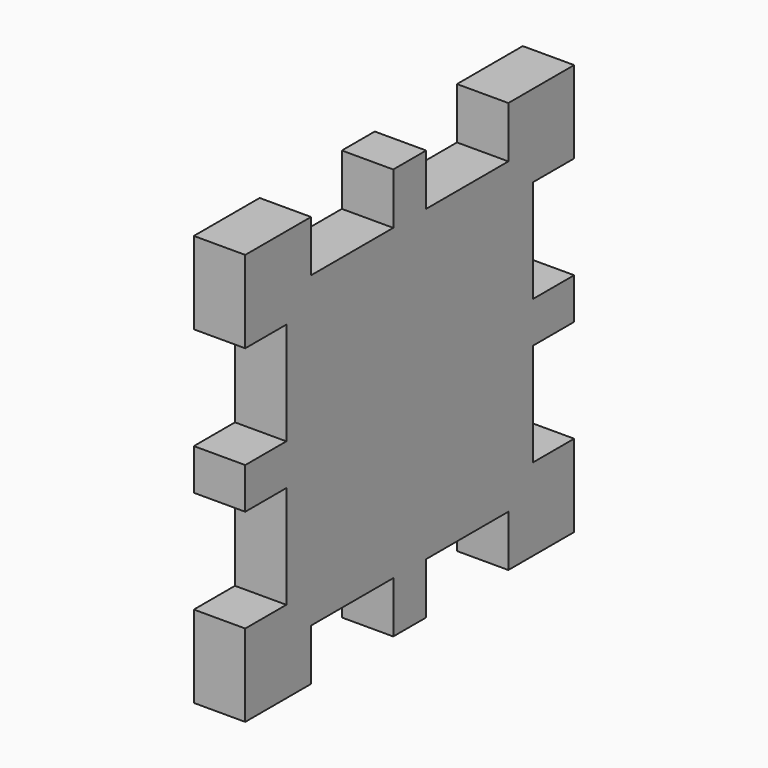
from build123d import *

# Parameters (mm, degrees)
F2_DEPTH = 6.35


with BuildPart() as f2:
    # F1 (on Right) → F2 (new body)
    with BuildSketch(Plane.YZ):
        Polygon((-2.54, 19.05), (-15.24, 19.05), (-15.24, 25.4), (-25.4, 25.4), (-25.4, 15.24), (-19.05, 15.24), (-19.05, 2.54), (-25.4, 2.54), (-25.4, -2.54), (-19.05, -2.54), (-19.05, -15.24), (-25.4, -15.24), (-25.4, -25.4), (-15.24, -25.4), (-15.24, -19.05), (-2.54, -19.05), (-2.54, -25.4), (2.54, -25.4), (2.54, -19.05), (15.24, -19.05), (15.24, -25.4), (25.4, -25.4), (25.4, -15.24), (19.05, -15.24), (19.05, -2.54), (25.4, -2.54), (25.4, 2.54), (19.05, 2.54), (19.05, 15.24), (25.4, 15.24), (25.4, 25.4), (15.24, 25.4), (15.24, 19.05), (2.54, 19.05), (2.54, 25.4), (-2.54, 25.4), align=None)
    extrude(amount=F2_DEPTH)


solid = f2.part
